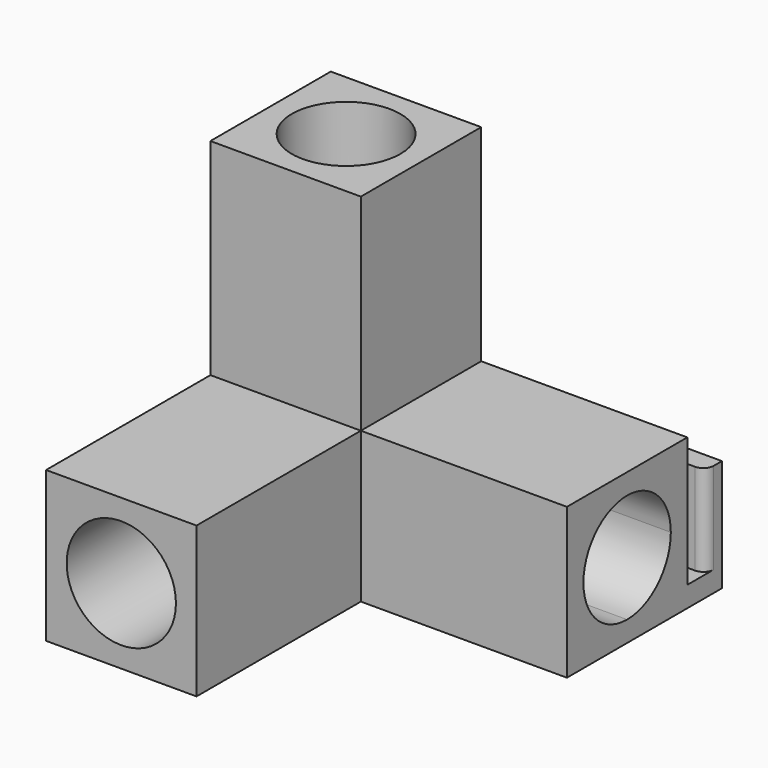
from build123d import *

# Parameters (mm, degrees)
F0_W      = 27
F0_H      = 15.9
F0_W_2    = 15.9
F0_H_2    = 27
F0_W_3    = 3
F0_H_3    = 3
F1_DEPTH  = 21.9
F2_DEPTH  = 51.8
F3_R      = 7.95
F6_DEPTH  = 30
F7_DEPTH  = 30
F4_R      = 7.9
F8_DEPTH  = 30
F10_DEPTH = 51.9
F11_R     = 1.5


with BuildPart() as f1:
    # F0 (on Front) → F1 (new body)
    with BuildSketch(Plane.XZ):
        with BuildLine():
            Line((-34.3576915575, 15.9), (-42.3076915575, 15.9))
            Line((-42.3076915575, 15.9), (-42.3076915575, 7.9499999931))
            ThreePointArc((-42.3076915575, 7.9499999931), (-39.9791904704, 13.571498908), (-34.3576915575, 15.9))
        make_face()
        with BuildLine():
            ThreePointArc((-34.3576915575, 15.9), (-39.9791904704, 13.571498908), (-42.3076915575, 7.9499999931))
            ThreePointArc((-42.3076915575, 7.9499999931), (-39.9791904655, 2.3285010871), (-34.3576915575, 0))
            ThreePointArc((-34.3576915575, 0), (-28.7361926471, 2.3285010896), (-26.4076915575, 7.95))
            ThreePointArc((-26.4076915575, 7.95), (-28.7361926471, 13.5714989104), (-34.3576915575, 15.9))
        make_face()
        Polygon((-42.3076915575, 18.9), (-42.3076915575, 45.9), (-26.4076915575, 45.9), (-26.4076915575, 18.9), (-23.4076915575, 18.9), (-23.4076915575, 48.9), (-45.3076915575, 48.9), (-45.3076915575, 18.9), align=None)
        with Locations((-9.9076915575, 7.95)):
            Rectangle(F0_W, F0_H)
        with Locations((-34.3576915575, 32.4)):
            Rectangle(F0_W_2, F0_H_2)
        with BuildLine():
            ThreePointArc((-34.3576915575, 0), (-39.9791904655, 2.3285010871), (-42.3076915575, 7.9499999931))
            Line((-42.3076915575, 7.9499999931), (-42.3076915575, 0))
            Line((-42.3076915575, 0), (-34.3576915575, 0))
        make_face()
        with BuildLine():
            Line((-26.4076915575, 0), (-26.4076915575, 7.95))
            ThreePointArc((-26.4076915575, 7.95), (-28.7361926471, 2.3285010896), (-34.3576915575, 0))
            Line((-34.3576915575, 0), (-26.4076915575, 0))
        make_face()
        with BuildLine():
            Line((-26.4076915575, 7.95), (-26.4076915575, 15.9))
            Line((-26.4076915575, 15.9), (-34.3576915575, 15.9))
            ThreePointArc((-34.3576915575, 15.9), (-28.7361926471, 13.5714989104), (-26.4076915575, 7.95))
        make_face()
        Polygon((6.5923084425, 18.9), (-23.4076915575, 18.9), (-23.4076915575, 15.9), (3.5923084425, 15.9), (3.5923084425, 0), (-23.4076915575, 0), (-23.4076915575, -3), (6.5923084425, -3), align=None)
        Polygon((-26.4076915575, 18.9), (-42.3076915575, 18.9), (-42.3076915575, 15.9), (-34.3576915575, 15.9), (-26.4076915575, 15.9), align=None)
        Polygon((-23.4076915575, 15.9), (-26.4076915575, 15.9), (-26.4076915575, 7.95), (-26.4076915575, 0), (-23.4076915575, 0), align=None)
        Polygon((-42.3076915575, 15.9), (-42.3076915575, 18.9), (-45.3076915575, 18.9), (-45.3076915575, -3), (-23.4076915575, -3), (-23.4076915575, 0), (-26.4076915575, 0), (-34.3576915575, 0), (-42.3076915575, 0), (-42.3076915575, 7.9499999931), align=None)
        with Locations((-24.9076915575, 17.4)):
            Rectangle(F0_W_3, F0_H_3)
    extrude(amount=F1_DEPTH)

    # F0 (on Front) → F2 (join)
    with BuildSketch(Plane.XZ):
        Polygon((-42.3076915575, 15.9), (-42.3076915575, 18.9), (-45.3076915575, 18.9), (-45.3076915575, -3), (-23.4076915575, -3), (-23.4076915575, 0), (-26.4076915575, 0), (-34.3576915575, 0), (-42.3076915575, 0), (-42.3076915575, 7.9499999931), align=None)
        with BuildLine():
            ThreePointArc((-34.3576915575, 15.9), (-39.9791904704, 13.571498908), (-42.3076915575, 7.9499999931))
            ThreePointArc((-42.3076915575, 7.9499999931), (-39.9791904655, 2.3285010871), (-34.3576915575, 0))
            ThreePointArc((-34.3576915575, 0), (-28.7361926471, 2.3285010896), (-26.4076915575, 7.95))
            ThreePointArc((-26.4076915575, 7.95), (-28.7361926471, 13.5714989104), (-34.3576915575, 15.9))
        make_face()
        Polygon((-26.4076915575, 18.9), (-42.3076915575, 18.9), (-42.3076915575, 15.9), (-34.3576915575, 15.9), (-26.4076915575, 15.9), align=None)
        Polygon((-23.4076915575, 15.9), (-26.4076915575, 15.9), (-26.4076915575, 7.95), (-26.4076915575, 0), (-23.4076915575, 0), align=None)
        with Locations((-24.9076915575, 17.4)):
            Rectangle(F0_W_3, F0_H_3)
        with BuildLine():
            Line((-26.4076915575, 7.95), (-26.4076915575, 15.9))
            Line((-26.4076915575, 15.9), (-34.3576915575, 15.9))
            ThreePointArc((-34.3576915575, 15.9), (-28.7361926471, 13.5714989104), (-26.4076915575, 7.95))
        make_face()
        with BuildLine():
            Line((-34.3576915575, 15.9), (-42.3076915575, 15.9))
            Line((-42.3076915575, 15.9), (-42.3076915575, 7.9499999931))
            ThreePointArc((-42.3076915575, 7.9499999931), (-39.9791904704, 13.571498908), (-34.3576915575, 15.9))
        make_face()
        with BuildLine():
            ThreePointArc((-34.3576915575, 0), (-39.9791904655, 2.3285010871), (-42.3076915575, 7.9499999931))
            Line((-42.3076915575, 7.9499999931), (-42.3076915575, 0))
            Line((-42.3076915575, 0), (-34.3576915575, 0))
        make_face()
        with BuildLine():
            Line((-26.4076915575, 0), (-26.4076915575, 7.95))
            ThreePointArc((-26.4076915575, 7.95), (-28.7361926471, 2.3285010896), (-34.3576915575, 0))
            Line((-34.3576915575, 0), (-26.4076915575, 0))
        make_face()
    extrude(amount=F2_DEPTH)

    # F3 (on face) → F6 (cut)
    with BuildSketch(Plane.XZ.offset(51.8)):
        with Locations((-34.3576915575, 7.95)):
            Circle(F3_R)
    extrude(amount=-F6_DEPTH, mode=Mode.SUBTRACT)

    # F5 (on face) → F7 (cut)
    with BuildSketch(Plane.YZ.offset(6.5923084425)):
        with BuildLine():
            ThreePointArc((-3, 7.95), (-5.3285010896, 13.5714989104), (-10.95, 15.9))
            ThreePointArc((-10.95, 15.9), (-16.5714989104, 13.5714989104), (-18.9, 7.95))
            ThreePointArc((-18.9, 7.95), (-16.5714989104, 2.3285010896), (-10.95, 0))
            ThreePointArc((-10.95, 0), (-5.3285010896, 2.3285010896), (-3, 7.95))
        make_face()
    extrude(amount=-F7_DEPTH, mode=Mode.SUBTRACT)

    # F4 (on face) → F8 (cut)
    with BuildSketch(Plane.XY.offset(48.9)):
        with Locations((-34.3576915575, -10.9)):
            Circle(F4_R)
    extrude(amount=-F8_DEPTH, mode=Mode.SUBTRACT)

    # F9 (on face) → F10 (join)
    with BuildSketch(Plane(origin=(-45.3076915575, 0, 0), x_dir=(0, -1, 0), z_dir=(-1, 0, 0))):
        Polygon((-6.3, -3), (0, -3), (0, 0), (-3.3, 0), (-3.3, 13.3), (-6.3, 13.3), align=None)
    extrude(amount=-F10_DEPTH)

    # F11
    f11_edges = [f1.edges().sort_by_distance(p)[0] for p in [
        (-45.307692, 3.3, 6.65),
        (6.592308, 3.3, 6.65),
    ]]
    fillet(f11_edges, radius=F11_R)


solid = f1.part
